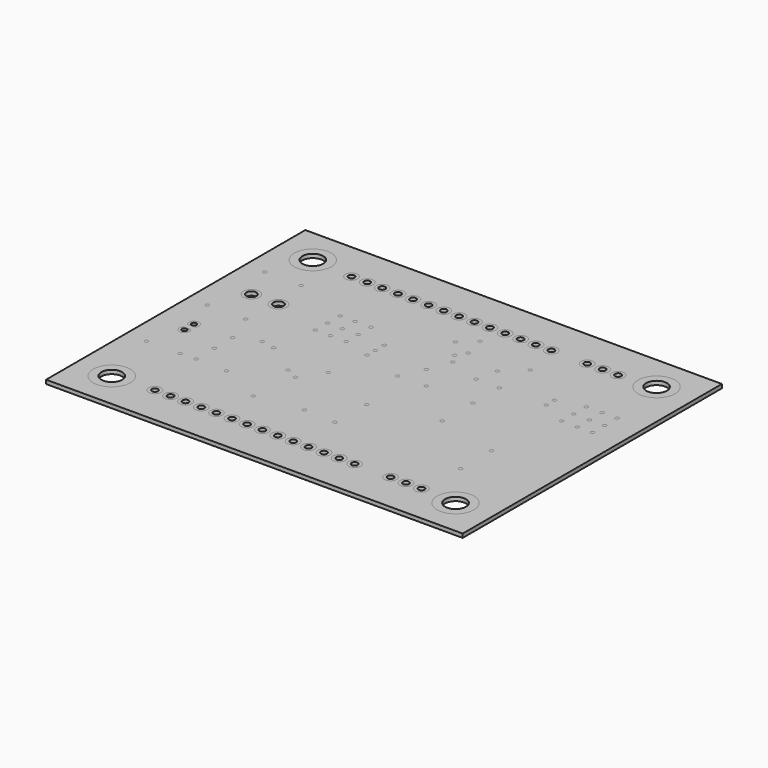
from build123d import *

# Parameters (mm, degrees)
F0_R     = 0.304794
F0_R_2   = 3.048384
F0_R_3   = 1.7145
F0_R_4   = 3.050106
F0_R_5   = 3.048205
F0_R_6   = 1.711164
F0_R_7   = 3.049237
F0_R_8   = 1.013087
F0_R_9   = 0.504832
F0_R_10  = 1.01612
F0_R_11  = 0.504535
F0_R_12  = 1.016
F0_R_13  = 0.507568
F0_R_14  = 1.011169
F0_R_15  = 0.506705
F0_R_16  = 1.021393
F0_R_17  = 0.513416
F0_R_18  = 1.011948
F0_R_19  = 0.504868
F0_R_20  = 1.014506
F0_R_21  = 0.501856
F0_R_22  = 1.016358
F0_R_23  = 0.510294
F0_R_24  = 1.017965
F0_R_25  = 0.503205
F0_R_26  = 1.009929
F0_R_27  = 0.505373
F0_R_28  = 1.018863
F0_R_29  = 0.501743
F0_R_30  = 1.017413
F0_R_31  = 0.504568
F0_R_32  = 1.015113
F0_R_33  = 0.506574
F0_R_34  = 1.328143
F0_R_35  = 0.823992
F0_R_36  = 1.019761
F0_R_37  = 0.503281
F0_R_38  = 1.331345
F0_R_39  = 0.826283
F0_R_40  = 1.021177
F0_R_41  = 0.506086
F0_R_42  = 1.01186
F0_R_43  = 0.513526
F0_R_44  = 1.017457
F0_R_45  = 0.502272
F0_R_46  = 0.304025
F0_R_47  = 0.306161
F0_R_48  = 0.310238
F0_R_49  = 0.304903
F0_R_50  = 0.302163
F0_R_51  = 0.302994
F0_R_52  = 0.307464
F0_R_53  = 0.301702
F0_R_54  = 0.310505
F0_R_55  = 0.304494
F0_R_56  = 0.301589
F0_R_57  = 0.302961
F0_R_58  = 0.301827
F0_R_59  = 0.303624
F0_R_60  = 0.308324
F0_R_61  = 0.302675
F0_R_62  = 0.30385
F0_R_63  = 0.302856
F0_R_64  = 0.307445
F0_R_65  = 0.301849
F0_R_66  = 0.306676
F0_R_67  = 0.303853
F0_R_68  = 0.300186
F0_R_69  = 0.301392
F0_R_70  = 1.013603
F0_R_71  = 0.510145
F0_R_72  = 0.304778
F0_R_73  = 0.307412
F0_R_74  = 0.307774
F0_R_75  = 0.30834
F0_R_76  = 1.012469
F0_R_77  = 0.508
F0_R_78  = 0.304931
F0_R_79  = 0.305213
F0_R_80  = 0.305755
F0_R_81  = 1.022145
F0_R_82  = 0.503365
F0_R_83  = 0.302571
F0_R_84  = 0.30078
F0_R_85  = 0.302695
F0_R_86  = 0.306128
F0_R_87  = 0.309653
F0_R_88  = 0.301401
F0_R_89  = 0.30318
F0_R_90  = 0.30754
F0_R_91  = 0.301567
F0_R_92  = 0.302995
F0_R_93  = 0.305696
F0_R_94  = 0.300914
F0_R_95  = 0.301424
F0_R_96  = 0.303781
F0_R_97  = 1.017523
F0_R_98  = 0.505397
F0_R_99  = 0.306247
F0_R_100 = 0.302192
F0_R_101 = 0.307342
F0_R_102 = 0.302239
F0_R_103 = 1.014223
F0_R_104 = 0.506281
F0_R_105 = 0.304585
F0_R_106 = 0.29971
F0_R_107 = 0.307187
F0_R_108 = 0.299377
F0_R_109 = 0.305029
F0_R_110 = 0.305154
F0_R_111 = 0.30418
F0_R_112 = 0.302337
F0_R_113 = 1.014754
F0_R_114 = 0.503557
F0_R_115 = 1.010257
F0_R_116 = 0.510454
F0_R_117 = 1.012677
F0_R_118 = 0.50693
F0_R_119 = 1.021114
F0_R_120 = 0.513198
F0_R_121 = 1.020725
F0_R_122 = 0.50428
F0_R_123 = 1.013082
F0_R_124 = 0.50793
F0_R_125 = 1.011811
F0_R_126 = 0.508379
F0_R_127 = 0.504714
F0_R_128 = 0.4064
F0_R_129 = 0.408619
F0_R_130 = 1.015071
F0_R_131 = 0.506948
F0_R_132 = 1.013104
F0_R_133 = 1.01373
F0_R_134 = 0.503029
F1_DEPTH = 0.635
F0_W     = 68.58
F0_H     = 53.34
F2_DEPTH = 0.635


with BuildPart() as f1:
    # F0 (on Top) → F1 (new body)
    with BuildSketch(Plane.XY):
        with Locations((-19.789033, 11.757207)):
            Circle(F0_R)
        with Locations((-37.337143, -19.63916)):
            Circle(F0_R_2)
        with Locations((-37.337143, -19.63916)):
            Circle(F0_R_3, mode=Mode.SUBTRACT)
        with Locations((19.250097, -19.63916)):
            Circle(F0_R_4)
        with Locations((19.250097, -19.63916)):
            Circle(F0_R_3, mode=Mode.SUBTRACT)
        with Locations((19.250097, 21.727383)):
            Circle(F0_R_5)
        with Locations((19.250097, 21.727383)):
            Circle(F0_R_6, mode=Mode.SUBTRACT)
        with Locations((-37.337143, 21.727383)):
            Circle(F0_R_7)
        with Locations((-37.337143, 21.727383)):
            Circle(F0_R_3, mode=Mode.SUBTRACT)
        with Locations((-22.898715, -19.255323)):
            Circle(F0_R_8)
        with Locations((-22.898715, -19.255323)):
            Circle(F0_R_9, mode=Mode.SUBTRACT)
        with Locations((-17.851431, 21.207085)):
            Circle(F0_R_10)
        with Locations((-17.851431, 21.207085)):
            Circle(F0_R_11, mode=Mode.SUBTRACT)
        with Locations((-27.961418, -19.255323)):
            Circle(F0_R_12)
        with Locations((-27.961418, -19.255323)):
            Circle(F0_R_13, mode=Mode.SUBTRACT)
        with Locations((-22.898715, 21.207085)):
            Circle(F0_R_14)
        with Locations((-22.898715, 21.207085)):
            Circle(F0_R_15, mode=Mode.SUBTRACT)
        with Locations((13.329575, 21.207085)):
            Circle(F0_R_16)
        with Locations((13.329575, 21.207085)):
            Circle(F0_R_17, mode=Mode.SUBTRACT)
        with Locations((-17.851431, -19.255323)):
            Circle(F0_R_18)
        with Locations((-17.851431, -19.255323)):
            Circle(F0_R_19, mode=Mode.SUBTRACT)
        with Locations((-12.834984, 21.207085)):
            Circle(F0_R_20)
        with Locations((-12.834984, 21.207085)):
            Circle(F0_R_21, mode=Mode.SUBTRACT)
        with Locations((-12.834984, -19.255323)):
            Circle(F0_R_22)
        with Locations((-12.834984, -19.255323)):
            Circle(F0_R_23, mode=Mode.SUBTRACT)
        with Locations((-5.248637, 21.207085)):
            Circle(F0_R_24)
        with Locations((-5.248637, 21.207085)):
            Circle(F0_R_25, mode=Mode.SUBTRACT)
        with Locations((-5.248637, -19.255323)):
            Circle(F0_R_26)
        with Locations((-5.248637, -19.255323)):
            Circle(F0_R_27, mode=Mode.SUBTRACT)
        with Locations((-0.186186, 21.207085)):
            Circle(F0_R_28)
        with Locations((-0.186186, 21.207085)):
            Circle(F0_R_29, mode=Mode.SUBTRACT)
        with Locations((-0.186186, -19.255323)):
            Circle(F0_R_30)
        with Locations((-0.186186, -19.255323)):
            Circle(F0_R_31, mode=Mode.SUBTRACT)
        with Locations((8.254847, -19.255323)):
            Circle(F0_R_32)
        with Locations((8.254847, -19.255323)):
            Circle(F0_R_33, mode=Mode.SUBTRACT)
        with Locations((-37.530616, 9.335068)):
            Circle(F0_R_34)
        with Locations((-37.530616, 9.335068)):
            Circle(F0_R_35, mode=Mode.SUBTRACT)
        with Locations((-27.961418, 21.207085)):
            Circle(F0_R_36)
        with Locations((-27.961418, 21.207085)):
            Circle(F0_R_37, mode=Mode.SUBTRACT)
        with Locations((-33.069268, 9.335068)):
            Circle(F0_R_38)
        with Locations((-33.069268, 9.335068)):
            Circle(F0_R_39, mode=Mode.SUBTRACT)
        with Locations((-30.539731, 21.207085)):
            Circle(F0_R_40)
        with Locations((-30.539731, 21.207085)):
            Circle(F0_R_41, mode=Mode.SUBTRACT)
        with Locations((8.254847, 21.207085)):
            Circle(F0_R_42)
        with Locations((8.254847, 21.207085)):
            Circle(F0_R_43, mode=Mode.SUBTRACT)
        with Locations((-30.539731, -19.255323)):
            Circle(F0_R_44)
        with Locations((-30.539731, -19.255323)):
            Circle(F0_R_45, mode=Mode.SUBTRACT)
        with Locations((-31.862348, -1.619726)):
            Circle(F0_R_46)
        with Locations((-15.319203, 7.053583)):
            Circle(F0_R_47)
        with Locations((3.629727, 3.456597)):
            Circle(F0_R_48)
        with Locations((18.250935, 9.154415)):
            Circle(F0_R_49)
        with Locations((-26.725208, -9.306693)):
            Circle(F0_R_50)
        with Locations((-24.863459, 6.687079)):
            Circle(F0_R_51)
        with Locations((-6.901725, 7.046568)):
            Circle(F0_R_52)
        with Locations((15.657669, 11.761982)):
            Circle(F0_R_53)
        with Locations((-31.861138, -5.404632)):
            Circle(F0_R_54)
        with Locations((-15.326785, 8.909905)):
            Circle(F0_R_55)
        with Locations((-4.048897, 3.456597)):
            Circle(F0_R_56)
        with Locations((18.251738, 11.761982)):
            Circle(F0_R_57)
        with Locations((-28.212382, -0.068193)):
            Circle(F0_R_58)
        with Locations((-15.322044, 5.37421)):
            Circle(F0_R_59)
        with Locations((-0.209608, 8.914705)):
            Circle(F0_R_60)
        with Locations((18.25697, 6.684097)):
            Circle(F0_R_61)
        with Locations((-33.788361, 3.459072)):
            Circle(F0_R_62)
        with Locations((-25.980128, -0.500552)):
            Circle(F0_R_63)
        with Locations((0.5377, 12.381135)):
            Circle(F0_R_64)
        with Locations((20.732617, 6.682078)):
            Circle(F0_R_65)
        with Locations((-40.106174, 3.457719)):
            Circle(F0_R_66)
        with Locations((-20.653838, -4.222819)):
            Circle(F0_R_67)
        with Locations((-5.531824, 10.775181)):
            Circle(F0_R_68)
        with Locations((20.733846, 9.16349)):
            Circle(F0_R_69)
        with Locations((-7.762, 21.207085)):
            Circle(F0_R_70)
        with Locations((-7.762, 21.207085)):
            Circle(F0_R_71, mode=Mode.SUBTRACT)
        with Locations((-40.045109, 15.231784)):
            Circle(F0_R_72)
        with Locations((-18.670015, -5.159574)):
            Circle(F0_R_73)
        with Locations((-6.532676, 12.38185)):
            Circle(F0_R_74)
        with Locations((20.729767, 11.761982)):
            Circle(F0_R_75)
        with Locations((-10.311342, 21.207085)):
            Circle(F0_R_76)
        with Locations((-10.311342, 21.207085)):
            Circle(F0_R_77, mode=Mode.SUBTRACT)
        with Locations((-34.034919, 15.233021)):
            Circle(F0_R_78)
        with Locations((-16.196346, -1.497032)):
            Circle(F0_R_79)
        with Locations((-5.531824, 13.983265)):
            Circle(F0_R_80)
        with Locations((-10.311342, -19.255323)):
            Circle(F0_R_81)
        with Locations((-10.311342, -19.255323)):
            Circle(F0_R_82, mode=Mode.SUBTRACT)
        with Locations((-24.863459, 11.757207)):
            Circle(F0_R_83)
        with Locations((-6.775798, -5.40795)):
            Circle(F0_R_84)
        with Locations((-8.757257, 15.355833)):
            Circle(F0_R_85)
        with Locations((-22.391696, 11.757207)):
            Circle(F0_R_86)
        with Locations((-19.659344, -12.645793)):
            Circle(F0_R_87)
        with Locations((-6.403536, 17.458115)):
            Circle(F0_R_88)
        with Locations((-22.388259, 9.15785)):
            Circle(F0_R_89)
        with Locations((-12.099356, -11.535277)):
            Circle(F0_R_90)
        with Locations((3.629727, 8.904049)):
            Circle(F0_R_91)
        with Locations((-24.863459, 9.156534)):
            Circle(F0_R_92)
        with Locations((-6.906135, -11.781037)):
            Circle(F0_R_93)
        with Locations((3.629727, 15.235123)):
            Circle(F0_R_94)
        with Locations((3.635069, -2.863606)):
            Circle(F0_R_95)
        with Locations((11.316754, 8.908753)):
            Circle(F0_R_96)
        with Locations((10.785503, -19.255323)):
            Circle(F0_R_97)
        with Locations((10.785503, -19.255323)):
            Circle(F0_R_98, mode=Mode.SUBTRACT)
        with Locations((-39.874703, -9.305436)):
            Circle(F0_R_99)
        with Locations((-19.786472, 9.156868)):
            Circle(F0_R_100)
        with Locations((13.795504, -11.787747)):
            Circle(F0_R_101)
        with Locations((11.317052, 10.643817)):
            Circle(F0_R_102)
        with Locations((13.329575, -19.255323)):
            Circle(F0_R_103)
        with Locations((13.329575, -19.255323)):
            Circle(F0_R_104, mode=Mode.SUBTRACT)
        with Locations((-34.358349, -9.305863)):
            Circle(F0_R_105)
        with Locations((-19.781839, 6.680019)):
            Circle(F0_R_106)
        with Locations((13.798016, -5.40795)):
            Circle(F0_R_107)
        with Locations((15.653081, 6.67773)):
            Circle(F0_R_108)
        with Locations((-31.806149, -9.179979)):
            Circle(F0_R_109)
        with Locations((-22.389121, 6.677217)):
            Circle(F0_R_110)
        with Locations((-8.632595, 3.33)):
            Circle(F0_R_111)
        with Locations((15.654668, 9.157521)):
            Circle(F0_R_112)
        with Locations((10.785503, 21.207085)):
            Circle(F0_R_12)
        with Locations((10.785503, 21.207085)):
            Circle(F0_R_77, mode=Mode.SUBTRACT)
        with Locations((-25.489176, -19.255323)):
            Circle(F0_R_113)
        with Locations((-25.489176, -19.255323)):
            Circle(F0_R_114, mode=Mode.SUBTRACT)
        with Locations((-20.421332, 21.207085)):
            Circle(F0_R_115)
        with Locations((-20.421332, 21.207085)):
            Circle(F0_R_116, mode=Mode.SUBTRACT)
        with Locations((-20.421332, -19.255323)):
            Circle(F0_R_117)
        with Locations((-20.421332, -19.255323)):
            Circle(F0_R_118, mode=Mode.SUBTRACT)
        with Locations((-15.363765, 21.207085)):
            Circle(F0_R_119)
        with Locations((-15.363765, 21.207085)):
            Circle(F0_R_120, mode=Mode.SUBTRACT)
        with Locations((-15.363765, -19.255323)):
            Circle(F0_R_121)
        with Locations((-15.363765, -19.255323)):
            Circle(F0_R_122, mode=Mode.SUBTRACT)
        with Locations((-2.713084, 21.207085)):
            Circle(F0_R_123)
        with Locations((-2.713084, 21.207085)):
            Circle(F0_R_124, mode=Mode.SUBTRACT)
        with Locations((-2.713084, -19.255323)):
            Circle(F0_R_125)
        with Locations((-2.713084, -19.255323)):
            Circle(F0_R_126, mode=Mode.SUBTRACT)
        with Locations((2.347735, 21.207085)):
            Circle(F0_R_12)
        with Locations((2.347735, 21.207085)):
            Circle(F0_R_127, mode=Mode.SUBTRACT)
        with BuildLine():
            ThreePointArc((-38.659, -3.186371), (-38.08584, -4.596068), (-37.511174, -3.186984))
            Line((-37.511174, -3.186984), (-38.659, -3.186371))
        make_face()
        with Locations((-38.085401, -3.774522)):
            Circle(F0_R_128, mode=Mode.SUBTRACT)
        with BuildLine():
            ThreePointArc((-37.476216, -2.353001), (-38.083831, -0.953529), (-38.696722, -2.350699))
            Line((-38.696722, -2.350699), (-37.476216, -2.353001))
        make_face()
        with Locations((-38.085401, -1.785853)):
            Circle(F0_R_129, mode=Mode.SUBTRACT)
        with Locations((2.347735, -19.255323)):
            Circle(F0_R_130)
        with Locations((2.347735, -19.255323)):
            Circle(F0_R_131, mode=Mode.SUBTRACT)
        with Locations((-25.489176, 21.207085)):
            Circle(F0_R_132)
        with Locations((-25.489176, 21.207085)):
            Circle(F0_R_77, mode=Mode.SUBTRACT)
        with Locations((-7.762, -19.255323)):
            Circle(F0_R_133)
        with Locations((-7.762, -19.255323)):
            Circle(F0_R_134, mode=Mode.SUBTRACT)
    extrude(amount=F1_DEPTH)


with BuildPart() as f2:
    # F0 (on Top) → F2 (new body)
    with BuildSketch(Plane.XY):
        with Locations((-8.991335, 0.945954)):
            Rectangle(F0_W, F0_H)
        with Locations((-37.337143, -19.63916)):
            Circle(F0_R_2, mode=Mode.SUBTRACT)
        with Locations((-30.539731, -19.255323)):
            Circle(F0_R_44, mode=Mode.SUBTRACT)
        with Locations((-27.961418, -19.255323)):
            Circle(F0_R_12, mode=Mode.SUBTRACT)
        with Locations((-25.489176, -19.255323)):
            Circle(F0_R_113, mode=Mode.SUBTRACT)
        with Locations((-22.898715, -19.255323)):
            Circle(F0_R_8, mode=Mode.SUBTRACT)
        with Locations((-20.421332, -19.255323)):
            Circle(F0_R_117, mode=Mode.SUBTRACT)
        with Locations((-17.851431, -19.255323)):
            Circle(F0_R_18, mode=Mode.SUBTRACT)
        with Locations((-15.363765, -19.255323)):
            Circle(F0_R_121, mode=Mode.SUBTRACT)
        with Locations((-12.834984, -19.255323)):
            Circle(F0_R_22, mode=Mode.SUBTRACT)
        with Locations((-10.311342, -19.255323)):
            Circle(F0_R_81, mode=Mode.SUBTRACT)
        with Locations((-19.659344, -12.645793)):
            Circle(F0_R_87, mode=Mode.SUBTRACT)
        with Locations((-39.874703, -9.305436)):
            Circle(F0_R_99, mode=Mode.SUBTRACT)
        with Locations((-34.358349, -9.305863)):
            Circle(F0_R_105, mode=Mode.SUBTRACT)
        with Locations((-31.806149, -9.179979)):
            Circle(F0_R_109, mode=Mode.SUBTRACT)
        with Locations((-26.725208, -9.306693)):
            Circle(F0_R_50, mode=Mode.SUBTRACT)
        with BuildLine():
            Line((-38.659, -3.186371), (-37.511174, -3.186984))
            ThreePointArc((-37.511174, -3.186984), (-38.08584, -4.596068), (-38.659, -3.186371))
        make_face(mode=Mode.SUBTRACT)
        with BuildLine():
            Line((-37.476216, -2.353001), (-38.696722, -2.350699))
            ThreePointArc((-38.696722, -2.350699), (-38.083831, -0.953529), (-37.476216, -2.353001))
        make_face(mode=Mode.SUBTRACT)
        with Locations((-31.861138, -5.404632)):
            Circle(F0_R_54, mode=Mode.SUBTRACT)
        with Locations((-31.862348, -1.619726)):
            Circle(F0_R_46, mode=Mode.SUBTRACT)
        with Locations((-28.212382, -0.068193)):
            Circle(F0_R_58, mode=Mode.SUBTRACT)
        with Locations((-12.099356, -11.535277)):
            Circle(F0_R_90, mode=Mode.SUBTRACT)
        with Locations((-20.653838, -4.222819)):
            Circle(F0_R_67, mode=Mode.SUBTRACT)
        with Locations((-18.670015, -5.159574)):
            Circle(F0_R_73, mode=Mode.SUBTRACT)
        with Locations((-25.980128, -0.500552)):
            Circle(F0_R_63, mode=Mode.SUBTRACT)
        with Locations((-16.196346, -1.497032)):
            Circle(F0_R_79, mode=Mode.SUBTRACT)
        with Locations((-7.762, -19.255323)):
            Circle(F0_R_133, mode=Mode.SUBTRACT)
        with Locations((-5.248637, -19.255323)):
            Circle(F0_R_26, mode=Mode.SUBTRACT)
        with Locations((-2.713084, -19.255323)):
            Circle(F0_R_125, mode=Mode.SUBTRACT)
        with Locations((-0.186186, -19.255323)):
            Circle(F0_R_30, mode=Mode.SUBTRACT)
        with Locations((2.347735, -19.255323)):
            Circle(F0_R_130, mode=Mode.SUBTRACT)
        with Locations((8.254847, -19.255323)):
            Circle(F0_R_32, mode=Mode.SUBTRACT)
        with Locations((10.785503, -19.255323)):
            Circle(F0_R_97, mode=Mode.SUBTRACT)
        with Locations((13.329575, -19.255323)):
            Circle(F0_R_103, mode=Mode.SUBTRACT)
        with Locations((19.250097, -19.63916)):
            Circle(F0_R_4, mode=Mode.SUBTRACT)
        with Locations((-6.906135, -11.781037)):
            Circle(F0_R_93, mode=Mode.SUBTRACT)
        with Locations((-6.775798, -5.40795)):
            Circle(F0_R_84, mode=Mode.SUBTRACT)
        with Locations((3.635069, -2.863606)):
            Circle(F0_R_95, mode=Mode.SUBTRACT)
        with Locations((13.795504, -11.787747)):
            Circle(F0_R_101, mode=Mode.SUBTRACT)
        with Locations((13.798016, -5.40795)):
            Circle(F0_R_107, mode=Mode.SUBTRACT)
        with Locations((-40.106174, 3.457719)):
            Circle(F0_R_66, mode=Mode.SUBTRACT)
        with Locations((-33.788361, 3.459072)):
            Circle(F0_R_62, mode=Mode.SUBTRACT)
        with Locations((-37.530616, 9.335068)):
            Circle(F0_R_34, mode=Mode.SUBTRACT)
        with Locations((-33.069268, 9.335068)):
            Circle(F0_R_38, mode=Mode.SUBTRACT)
        with Locations((-24.863459, 6.687079)):
            Circle(F0_R_51, mode=Mode.SUBTRACT)
        with Locations((-22.389121, 6.677217)):
            Circle(F0_R_110, mode=Mode.SUBTRACT)
        with Locations((-19.781839, 6.680019)):
            Circle(F0_R_106, mode=Mode.SUBTRACT)
        with Locations((-15.322044, 5.37421)):
            Circle(F0_R_59, mode=Mode.SUBTRACT)
        with Locations((-15.319203, 7.053583)):
            Circle(F0_R_47, mode=Mode.SUBTRACT)
        with Locations((-24.863459, 9.156534)):
            Circle(F0_R_92, mode=Mode.SUBTRACT)
        with Locations((-22.388259, 9.15785)):
            Circle(F0_R_89, mode=Mode.SUBTRACT)
        with Locations((-19.786472, 9.156868)):
            Circle(F0_R_100, mode=Mode.SUBTRACT)
        with Locations((-24.863459, 11.757207)):
            Circle(F0_R_83, mode=Mode.SUBTRACT)
        with Locations((-22.391696, 11.757207)):
            Circle(F0_R_86, mode=Mode.SUBTRACT)
        with Locations((-19.789033, 11.757207)):
            Circle(F0_R, mode=Mode.SUBTRACT)
        with Locations((-15.326785, 8.909905)):
            Circle(F0_R_55, mode=Mode.SUBTRACT)
        with Locations((-40.045109, 15.231784)):
            Circle(F0_R_72, mode=Mode.SUBTRACT)
        with Locations((-34.034919, 15.233021)):
            Circle(F0_R_78, mode=Mode.SUBTRACT)
        with Locations((-37.337143, 21.727383)):
            Circle(F0_R_7, mode=Mode.SUBTRACT)
        with Locations((-30.539731, 21.207085)):
            Circle(F0_R_40, mode=Mode.SUBTRACT)
        with Locations((-27.961418, 21.207085)):
            Circle(F0_R_36, mode=Mode.SUBTRACT)
        with Locations((-25.489176, 21.207085)):
            Circle(F0_R_132, mode=Mode.SUBTRACT)
        with Locations((-22.898715, 21.207085)):
            Circle(F0_R_14, mode=Mode.SUBTRACT)
        with Locations((-20.421332, 21.207085)):
            Circle(F0_R_115, mode=Mode.SUBTRACT)
        with Locations((-17.851431, 21.207085)):
            Circle(F0_R_10, mode=Mode.SUBTRACT)
        with Locations((-15.363765, 21.207085)):
            Circle(F0_R_119, mode=Mode.SUBTRACT)
        with Locations((-12.834984, 21.207085)):
            Circle(F0_R_20, mode=Mode.SUBTRACT)
        with Locations((-10.311342, 21.207085)):
            Circle(F0_R_76, mode=Mode.SUBTRACT)
        with Locations((-8.632595, 3.33)):
            Circle(F0_R_111, mode=Mode.SUBTRACT)
        with Locations((-4.048897, 3.456597)):
            Circle(F0_R_56, mode=Mode.SUBTRACT)
        with Locations((-6.901725, 7.046568)):
            Circle(F0_R_52, mode=Mode.SUBTRACT)
        with Locations((3.629727, 3.456597)):
            Circle(F0_R_48, mode=Mode.SUBTRACT)
        with Locations((-5.531824, 10.775181)):
            Circle(F0_R_68, mode=Mode.SUBTRACT)
        with Locations((-6.532676, 12.38185)):
            Circle(F0_R_74, mode=Mode.SUBTRACT)
        with Locations((-5.531824, 13.983265)):
            Circle(F0_R_80, mode=Mode.SUBTRACT)
        with Locations((-0.209608, 8.914705)):
            Circle(F0_R_60, mode=Mode.SUBTRACT)
        with Locations((3.629727, 8.904049)):
            Circle(F0_R_91, mode=Mode.SUBTRACT)
        with Locations((0.5377, 12.381135)):
            Circle(F0_R_64, mode=Mode.SUBTRACT)
        with Locations((15.653081, 6.67773)):
            Circle(F0_R_108, mode=Mode.SUBTRACT)
        with Locations((18.25697, 6.684097)):
            Circle(F0_R_61, mode=Mode.SUBTRACT)
        with Locations((20.732617, 6.682078)):
            Circle(F0_R_65, mode=Mode.SUBTRACT)
        with Locations((11.316754, 8.908753)):
            Circle(F0_R_96, mode=Mode.SUBTRACT)
        with Locations((11.317052, 10.643817)):
            Circle(F0_R_102, mode=Mode.SUBTRACT)
        with Locations((15.654668, 9.157521)):
            Circle(F0_R_112, mode=Mode.SUBTRACT)
        with Locations((15.657669, 11.761982)):
            Circle(F0_R_53, mode=Mode.SUBTRACT)
        with Locations((18.250935, 9.154415)):
            Circle(F0_R_49, mode=Mode.SUBTRACT)
        with Locations((20.733846, 9.16349)):
            Circle(F0_R_69, mode=Mode.SUBTRACT)
        with Locations((18.251738, 11.761982)):
            Circle(F0_R_57, mode=Mode.SUBTRACT)
        with Locations((20.729767, 11.761982)):
            Circle(F0_R_75, mode=Mode.SUBTRACT)
        with Locations((-8.757257, 15.355833)):
            Circle(F0_R_85, mode=Mode.SUBTRACT)
        with Locations((-6.403536, 17.458115)):
            Circle(F0_R_88, mode=Mode.SUBTRACT)
        with Locations((3.629727, 15.235123)):
            Circle(F0_R_94, mode=Mode.SUBTRACT)
        with Locations((-7.762, 21.207085)):
            Circle(F0_R_70, mode=Mode.SUBTRACT)
        with Locations((-5.248637, 21.207085)):
            Circle(F0_R_24, mode=Mode.SUBTRACT)
        with Locations((-2.713084, 21.207085)):
            Circle(F0_R_123, mode=Mode.SUBTRACT)
        with Locations((-0.186186, 21.207085)):
            Circle(F0_R_28, mode=Mode.SUBTRACT)
        with Locations((2.347735, 21.207085)):
            Circle(F0_R_12, mode=Mode.SUBTRACT)
        with Locations((8.254847, 21.207085)):
            Circle(F0_R_42, mode=Mode.SUBTRACT)
        with Locations((10.785503, 21.207085)):
            Circle(F0_R_12, mode=Mode.SUBTRACT)
        with Locations((13.329575, 21.207085)):
            Circle(F0_R_16, mode=Mode.SUBTRACT)
        with Locations((19.250097, 21.727383)):
            Circle(F0_R_5, mode=Mode.SUBTRACT)
    extrude(amount=F2_DEPTH)


solid = Compound([f1.part, f2.part])
